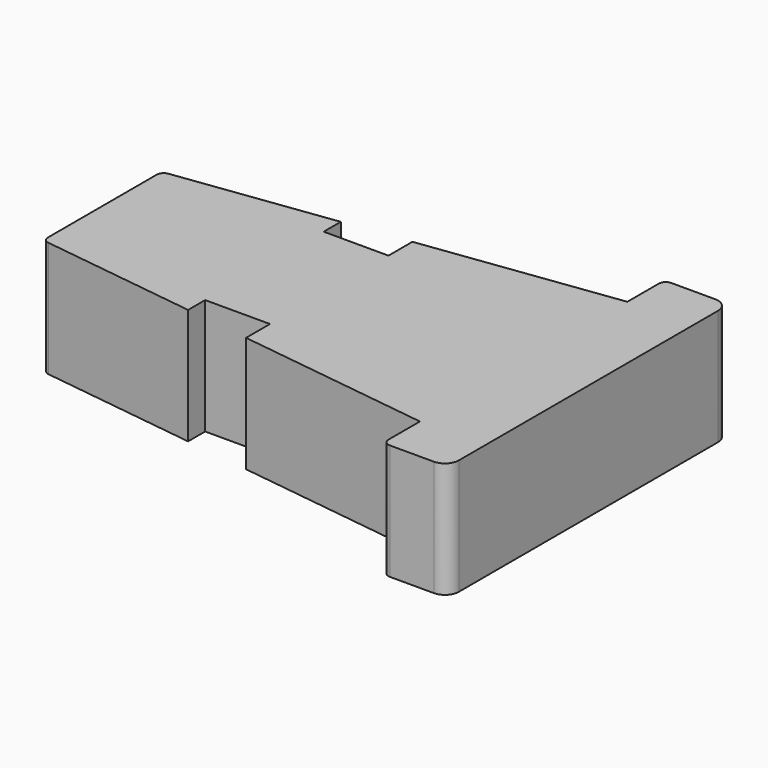
from build123d import *

# Parameters (mm, degrees)
F1_DEPTH = 25


with BuildPart() as f1:
    # F0 (on Top) → F1 (new body)
    with BuildSketch(Plane.XY):
        with BuildLine():
            Line((102, 51.457942), (92.5, 51.457942))
            ThreePointArc((92.5, 51.457942), (91.43934, 51.018602), (91, 49.957942))
            Line((91, 49.957942), (91, 41.457942))
            Line((91, 41.457942), (49, 35.91948))
            Line((49, 35.91948), (49, 29.457942))
            Line((49, 29.457942), (35, 29.457942))
            Line((35, 29.457942), (35, 34.073326))
            Line((35, 34.073326), (1.303896, 29.629884))
            ThreePointArc((1.303896, 29.629884), (0.372135, 29.131657), (0, 28.142758))
            Line((0, 28.142758), (0, -1.226875))
            ThreePointArc((0, -1.226875), (0.372135, -2.215774), (1.303896, -2.714001))
            Line((1.303896, -2.714001), (35, -7.157443))
            Line((35, -7.157443), (35, -2.542058))
            Line((35, -2.542058), (49, -2.542058))
            Line((49, -2.542058), (49, -9.003597))
            Line((49, -9.003597), (91, -14.542058))
            Line((91, -14.542058), (91, -23.042058))
            ThreePointArc((91, -23.042058), (91.43934, -24.102719), (92.5, -24.542058))
            Line((92.5, -24.542058), (102, -24.542058))
            ThreePointArc((102, -24.542058), (104.12132, -23.663379), (105, -21.542058))
            Line((105, -21.542058), (105, 48.457942))
            ThreePointArc((105, 48.457942), (104.12132, 50.579262), (102, 51.457942))
        make_face()
    extrude(amount=F1_DEPTH)


solid = f1.part
